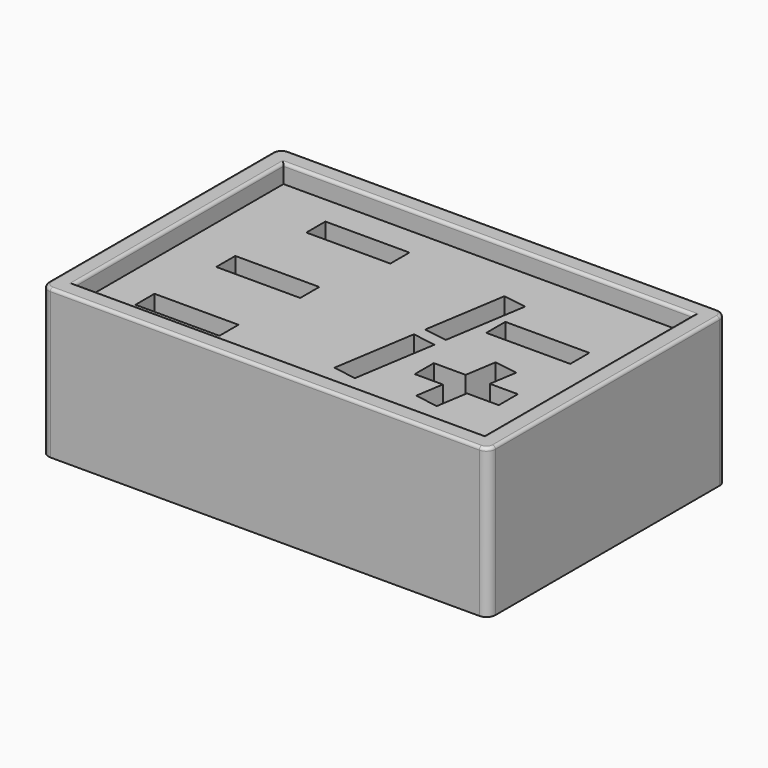
from build123d import *

# Parameters (mm, degrees)
F0_W     = 38.1
F0_H     = 25.4
F1_DEPTH = 12.7
F2_W     = 34.925
F2_H     = 22.225
F3_DEPTH = 1.5875
F4_R     = 0.762
F5_R     = 0.254
F6_W     = 7.1628
F6_H     = 2.032
F7_DEPTH = 25.4


with BuildPart() as f1:
    # F0 (on Top) → F1 (new body)
    with BuildSketch(Plane.XY):
        Rectangle(F0_W, F0_H)
    extrude(amount=F1_DEPTH)

    # F2 (on face) → F3 (cut)
    with BuildSketch(Plane.XY.offset(12.7)):
        Rectangle(F2_W, F2_H)
    extrude(amount=-F3_DEPTH, mode=Mode.SUBTRACT)

    # F4
    f4_edges = [f1.edges().sort_by_distance(p)[0] for p in [
        (-19.05, -12.7, 6.35),
        (-19.05, 12.7, 6.35),
        (19.05, 12.7, 6.35),
        (19.05, -12.7, 6.35),
    ]]
    fillet(f4_edges, radius=F4_R)

    # F5
    f5_edges = [f1.edges().sort_by_distance(p)[0] for p in [
        (0, 12.7, 12.7),
        (18.826815, 12.476815, 12.7),
        (-18.826815, 12.476815, 12.7),
        (19.05, 0, 12.7),
        (-19.05, 0, 12.7),
        (18.826815, -12.476815, 12.7),
        (-18.826815, -12.476815, 12.7),
        (0, -12.7, 12.7),
        (0, 11.1125, 12.7),
        (-17.4625, 0, 12.7),
        (0, -11.1125, 12.7),
        (17.4625, 0, 12.7),
    ]]
    fillet(f5_edges, radius=F5_R)

    # F6 (on Top) → F7 (cut)
    with BuildSketch(Plane.XY):
        with Locations((-10.7061, -7.62)):
            Rectangle(F6_W, F6_H)
        with Locations((-9.91108, 0)):
            Rectangle(F6_W, F6_H)
        with Locations((-8.32358, 7.62)):
            Rectangle(F6_W, F6_H)
        with Locations((10.0658737301, 3.81)):
            Rectangle(F6_W, F6_H)
        Polygon((9.198520352, -2.794), (6.4844737301, -2.794), (6.4844737301, -4.826), (8.8766831692, -4.826), align=None)
        Polygon((9.620991022, -0.126625167), (9.198520352, -2.794), (11.2558494876, -2.794), (11.6279737301, -0.4445), align=None)
        Polygon((11.2558494876, -2.794), (9.198520352, -2.794), (8.8766831692, -4.826), (10.9340123049, -4.826), align=None)
        Polygon((13.6472737301, -2.794), (11.2558494876, -2.794), (10.9340123049, -4.826), (13.6472737301, -4.826), align=None)
        Polygon((10.9340123049, -4.826), (8.8766831692, -4.826), (8.5032636406, -7.1836781144), (10.5074649439, -7.519114046), align=None)
        Polygon((5.0164880452, 0.3089470527), (6.1342154266, 7.366), (4.1272327185, 7.683874833), (3.0095053371, 0.6268218856), align=None)
        Polygon((3.7370418425, -7.7691583474), (4.8575506287, -0.6945443014), (2.8505679206, -0.3766694684), (1.7300591344, -7.4512835144), align=None)
    extrude(amount=F7_DEPTH, mode=Mode.SUBTRACT)


solid = f1.part
